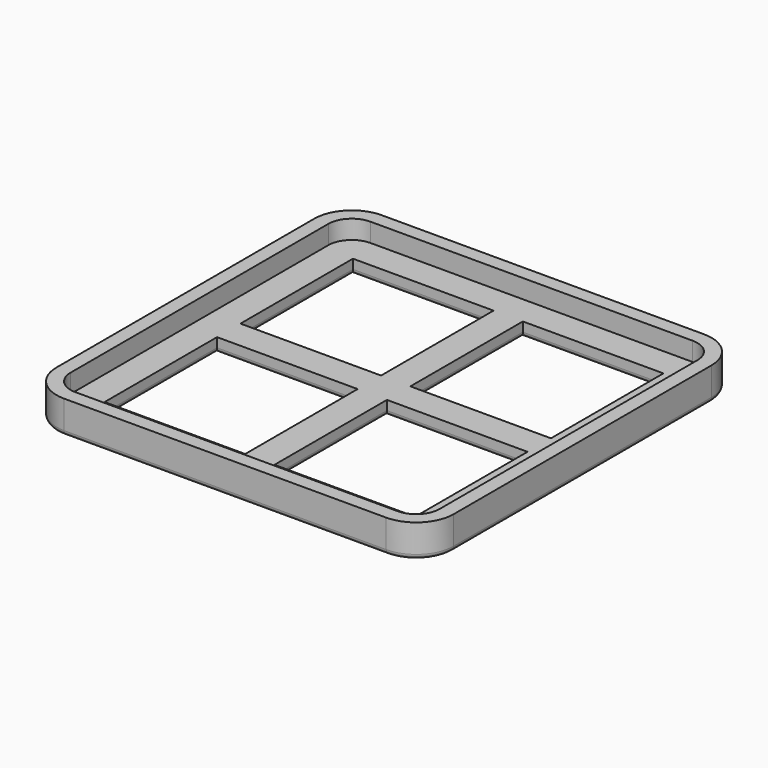
from build123d import *

# Parameters (mm, degrees)
F0_W     = 12
F0_H     = 12
F1_DEPTH = 1.2
F2_DEPTH = 1.6
F3_R     = 0.4


with BuildPart() as f1:
    # F0 (on Top) → F1 (new body)
    with BuildSketch(Plane.XY):
        with BuildLine():
            Line((12.5, 15.7), (-15, 15.7))
            ThreePointArc((-15, 15.7), (-17.2627416998, 14.7627416998), (-18.2, 12.5))
            Line((-18.2, 12.5), (-18.2, -15))
            ThreePointArc((-18.2, -15), (-17.2627416998, -17.2627416998), (-15, -18.2))
            Line((-15, -18.2), (12.5, -18.2))
            ThreePointArc((12.5, -18.2), (14.7627416998, -17.2627416998), (15.7, -15))
            Line((15.7, -15), (15.7, 12.5))
            ThreePointArc((15.7, 12.5), (14.7627416998, 14.7627416998), (12.5, 15.7))
        make_face()
        with BuildLine():
            ThreePointArc((-17, 12.5), (-16.4142135624, 13.9142135624), (-15, 14.5))
            Line((-15, 14.5), (12.5, 14.5))
            ThreePointArc((12.5, 14.5), (13.9142135624, 13.9142135624), (14.5, 12.5))
            Line((14.5, 12.5), (14.5, -15))
            ThreePointArc((14.5, -15), (13.9142135624, -16.4142135624), (12.5, -17))
            Line((12.5, -17), (-15, -17))
            ThreePointArc((-15, -17), (-16.4142135624, -16.4142135624), (-17, -15))
            Line((-17, -15), (-17, 12.5))
        make_face(mode=Mode.SUBTRACT)
        with BuildLine():
            Line((12.5, 14.5), (-15, 14.5))
            ThreePointArc((-15, 14.5), (-16.4142135624, 13.9142135624), (-17, 12.5))
            Line((-17, 12.5), (-17, -15))
            ThreePointArc((-17, -15), (-16.4142135624, -16.4142135624), (-15, -17))
            Line((-15, -17), (12.5, -17))
            ThreePointArc((12.5, -17), (13.9142135624, -16.4142135624), (14.5, -15))
            Line((14.5, -15), (14.5, 12.5))
            ThreePointArc((14.5, 12.5), (13.9142135624, 13.9142135624), (12.5, 14.5))
        make_face()
        with Locations((-8.5, -8.5)):
            Rectangle(F0_W, F0_H, mode=Mode.SUBTRACT)
        with Locations((6, -8.5)):
            Rectangle(F0_W, F0_H, mode=Mode.SUBTRACT)
        with Locations((-8.5, 6)):
            Rectangle(F0_W, F0_H, mode=Mode.SUBTRACT)
        with Locations((6, 6)):
            Rectangle(F0_W, F0_H, mode=Mode.SUBTRACT)
    extrude(amount=-F1_DEPTH)

    # F0 (on Top) → F2 (join)
    with BuildSketch(Plane.XY):
        with BuildLine():
            Line((12.5, 15.7), (-15, 15.7))
            ThreePointArc((-15, 15.7), (-17.2627416998, 14.7627416998), (-18.2, 12.5))
            Line((-18.2, 12.5), (-18.2, -15))
            ThreePointArc((-18.2, -15), (-17.2627416998, -17.2627416998), (-15, -18.2))
            Line((-15, -18.2), (12.5, -18.2))
            ThreePointArc((12.5, -18.2), (14.7627416998, -17.2627416998), (15.7, -15))
            Line((15.7, -15), (15.7, 12.5))
            ThreePointArc((15.7, 12.5), (14.7627416998, 14.7627416998), (12.5, 15.7))
        make_face()
        with BuildLine():
            ThreePointArc((-17, 12.5), (-16.4142135624, 13.9142135624), (-15, 14.5))
            Line((-15, 14.5), (12.5, 14.5))
            ThreePointArc((12.5, 14.5), (13.9142135624, 13.9142135624), (14.5, 12.5))
            Line((14.5, 12.5), (14.5, -15))
            ThreePointArc((14.5, -15), (13.9142135624, -16.4142135624), (12.5, -17))
            Line((12.5, -17), (-15, -17))
            ThreePointArc((-15, -17), (-16.4142135624, -16.4142135624), (-17, -15))
            Line((-17, -15), (-17, 12.5))
        make_face(mode=Mode.SUBTRACT)
    extrude(amount=F2_DEPTH)

    # F3
    f3_edges = [f1.edges().sort_by_distance(p)[0] for p in [
        (-8.5, -2.5, -1.2),
        (-2.5, -8.5, -1.2),
        (-8.5, -14.5, -1.2),
        (-14.5, -8.5, -1.2),
        (6, -2.5, -1.2),
        (12, -8.5, -1.2),
        (6, -14.5, -1.2),
        (0, -8.5, -1.2),
        (-8.5, 12, -1.2),
        (-2.5, 6, -1.2),
        (-8.5, 0, -1.2),
        (-14.5, 6, -1.2),
        (6, 0, -1.2),
        (0, 6, -1.2),
        (6, 12, -1.2),
        (12, 6, -1.2),
        (-1.25, 15.7, -1.2),
        (-17.262742, 14.762742, -1.2),
        (-18.2, -1.25, -1.2),
        (-17.262742, -17.262742, -1.2),
        (-1.25, -18.2, -1.2),
        (14.762742, -17.262742, -1.2),
        (15.7, -1.25, -1.2),
        (14.762742, 14.762742, -1.2),
    ]]
    fillet(f3_edges, radius=F3_R)


solid = f1.part
